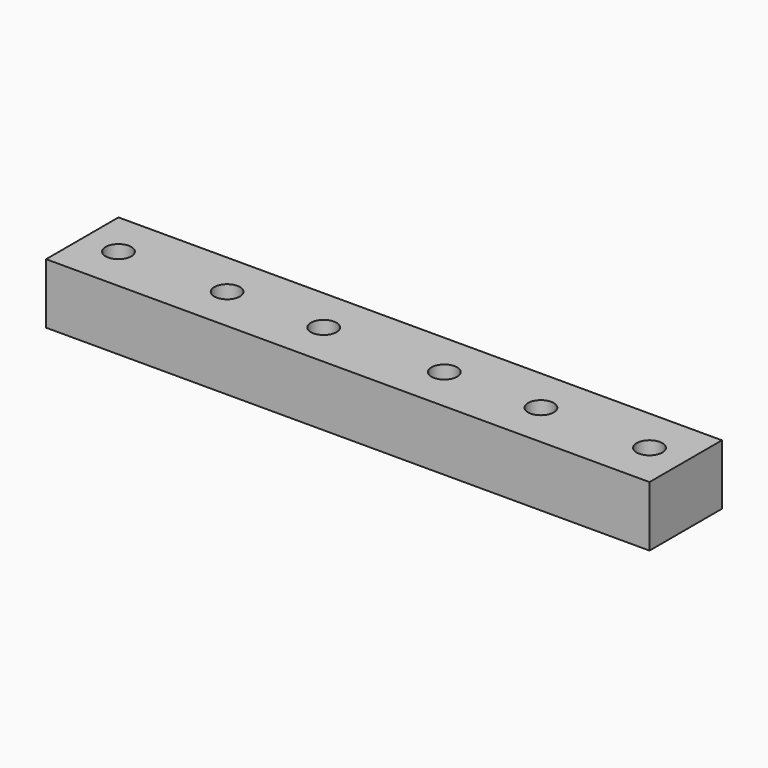
from build123d import *

# Parameters (mm, degrees)
F0_W     = 200
F0_H     = 30
F0_R     = 4.25
F1_DEPTH = 20


with BuildPart() as f1:
    # F0 (on Top) → F1 (new body)
    with BuildSketch(Plane.XY):
        Rectangle(F0_W, F0_H)
        with Locations((-88, 0)):
            Circle(F0_R, mode=Mode.SUBTRACT)
        with Locations((-52, 0)):
            Circle(F0_R, mode=Mode.SUBTRACT)
        with Locations((-20, 0)):
            Circle(F0_R, mode=Mode.SUBTRACT)
        with Locations((20, 0)):
            Circle(F0_R, mode=Mode.SUBTRACT)
        with Locations((52, 0)):
            Circle(F0_R, mode=Mode.SUBTRACT)
        with Locations((88, 0)):
            Circle(F0_R, mode=Mode.SUBTRACT)
    extrude(amount=F1_DEPTH)


solid = f1.part
